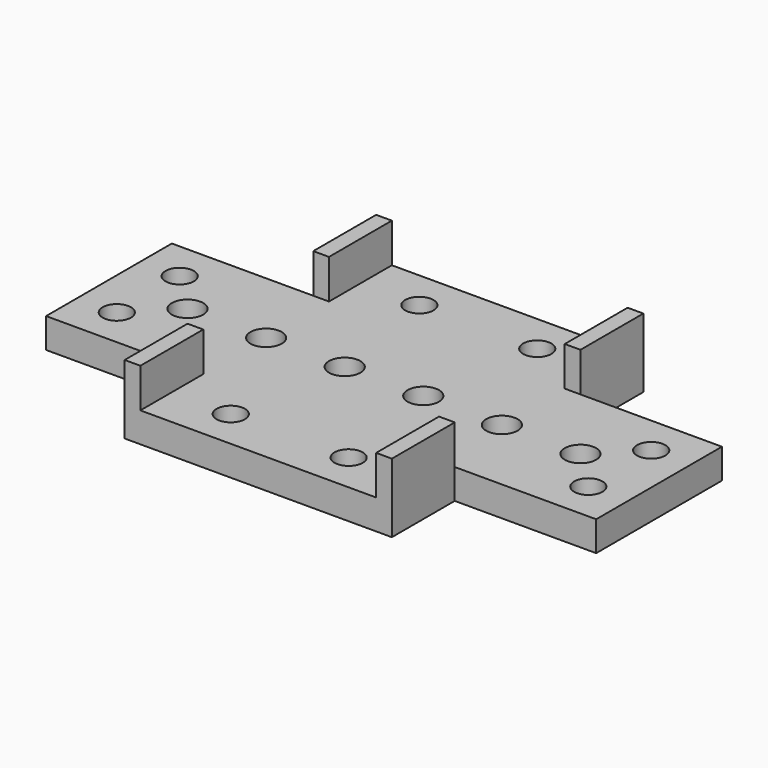
from build123d import *

# Parameters (mm, degrees)
SKETCH_R        = 1.8
PAD_DEPTH       = 3.8
SKETCH001_R     = 1.8
POCKET_DEPTH    = 5
SKETCH002_W     = 2
SKETCH002_H     = 10
PAD001_DEPTH    = 5
SKETCH003_R     = 2
POCKET001_DEPTH = 5


with BuildPart() as part:
    # Sketch → Pad (new body)
    with BuildSketch(Plane.XY):
        Polygon((0, 0), (0, 20), (18, 20), (18, 30), (52, 30), (52, 20), (70, 20), (70, 0), (52, 0), (52, -10), (18, -10), (18, 0), align=None)
        with Locations((27.5, 25)):
            Circle(SKETCH_R, mode=Mode.SUBTRACT)
        with Locations((42.5, 25)):
            Circle(SKETCH_R, mode=Mode.SUBTRACT)
        with Locations((27.5, -5)):
            Circle(SKETCH_R, mode=Mode.SUBTRACT)
        with Locations((42.5, -5)):
            Circle(SKETCH_R, mode=Mode.SUBTRACT)
    extrude(amount=PAD_DEPTH)

    # Sketch001 → Pocket (cut)
    with BuildSketch(Plane.XY.offset(3.8)):
        with Locations((5, 15)):
            Circle(SKETCH001_R)
        with Locations((65, 15)):
            Circle(SKETCH001_R)
        with Locations((65, 5)):
            Circle(SKETCH001_R)
        with Locations((5, 5)):
            Circle(SKETCH001_R)
    extrude(amount=-POCKET_DEPTH, mode=Mode.SUBTRACT)

    # Sketch002 → Pad001 (new body)
    with BuildSketch(Plane.XY.offset(3.8)):
        with Locations((19, 25)):
            Rectangle(SKETCH002_W, SKETCH002_H)
        with Locations((51, 25)):
            Rectangle(SKETCH002_W, SKETCH002_H)
        with Locations((51, -5)):
            Rectangle(SKETCH002_W, SKETCH002_H)
        with Locations((19, -5)):
            Rectangle(SKETCH002_W, SKETCH002_H)
    extrude(amount=PAD001_DEPTH)

    # Sketch003 → Pocket001 (cut)
    with BuildSketch(Plane.XY.offset(3.8)):
        with Locations((10, 10)):
            Circle(SKETCH003_R)
        with Locations((20, 10)):
            Circle(SKETCH003_R)
        with Locations((30, 10)):
            Circle(SKETCH003_R)
        with Locations((40, 10)):
            Circle(SKETCH003_R)
        with Locations((50, 10)):
            Circle(SKETCH003_R)
        with Locations((60, 10)):
            Circle(SKETCH003_R)
    extrude(amount=-POCKET001_DEPTH, mode=Mode.SUBTRACT)


solid = part.part
